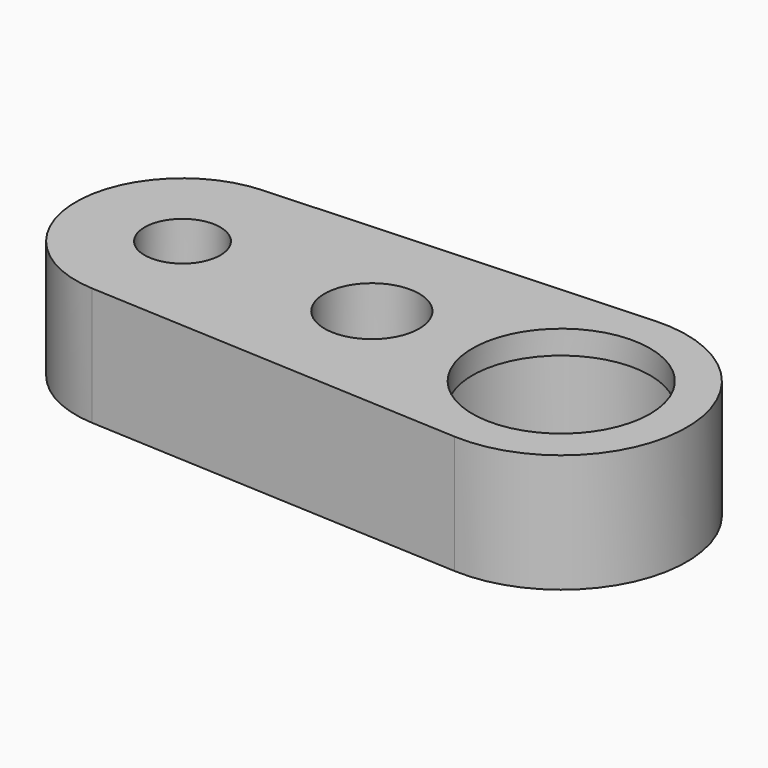
from build123d import *

# Parameters (mm, degrees)
SKETCH_R        = 3.2
SKETCH_R_2      = 7.5
SKETCH_R_3      = 4
PAD_DEPTH       = 10
SKETCH001_R     = 8.6
POCKET_DEPTH    = 8
SKETCH002_R     = 7.5
POCKET001_DEPTH = 4


with BuildPart() as part:
    # Sketch → Pad (new body)
    with BuildSketch(Plane.XY):
        with BuildLine():
            ThreePointArc((-32.45, 8.988743), (-41, 0), (-32.45, -8.988743))
            Line((-32.45, -8.988743), (-0.53, -10.586742))
            ThreePointArc((-0.53, -10.586742), (10.6, 0), (-0.53, 10.586742))
            Line((-32.45, 8.988743), (-0.53, 10.586742))
        make_face()
        with Locations((-32, 0)):
            Circle(SKETCH_R, mode=Mode.SUBTRACT)
        Circle(SKETCH_R_2, mode=Mode.SUBTRACT)
        with Locations((-16, 0)):
            Circle(SKETCH_R_3, mode=Mode.SUBTRACT)
    extrude(amount=PAD_DEPTH)

    # Sketch001 → Pocket (cut)
    with BuildSketch(Plane(origin=(0, 0, 0), x_dir=(1, 0, 0), z_dir=(0, 0, -1))):
        Circle(SKETCH001_R)
    extrude(amount=-POCKET_DEPTH, mode=Mode.SUBTRACT)

    # Sketch002 → Pocket001 (cut)
    with BuildSketch(Plane(origin=(0, 0, 0), x_dir=(1, 0, 0), z_dir=(0, 0, -1))):
        with Locations((-32, 0)):
            Circle(SKETCH002_R)
    extrude(amount=-POCKET001_DEPTH, mode=Mode.SUBTRACT)


solid = part.part
